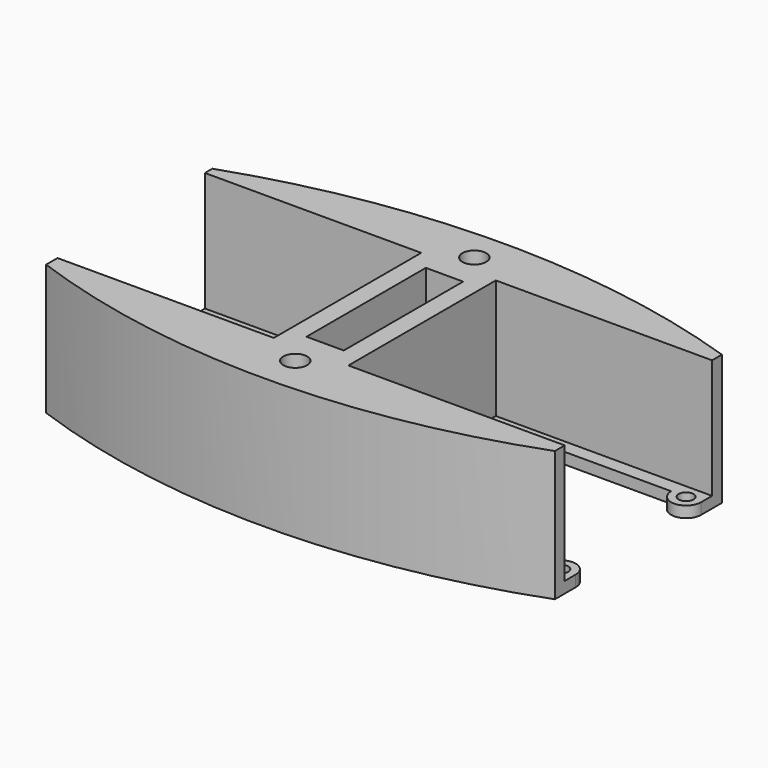
from build123d import *

# Parameters (mm, degrees)
SKETCH_R        = 1
PAD_DEPTH       = 1.5
PAD001_DEPTH    = 16
SKETCH002_R     = 1.6
POCKET_DEPTH    = 30
POCKET001_DEPTH = 14
SKETCH004_W     = 5
SKETCH004_H     = 20
POCKET002_DEPTH = 20


with BuildPart() as part:
    # Sketch → Pad (new body)
    with BuildSketch(Plane.XY):
        with BuildLine():
            Line((13, 10.5), (30, 10.5))
            ThreePointArc((30, 10.5), (32, 8.5), (34, 10.5))
            Line((34, 10.5), (34, 14))
            ThreePointArc((34, 14), (-0.033512, 19.410124), (-34, 13.594018))
            Line((-34, 10.5), (-34, 13.594018))
            ThreePointArc((-34, 10.5), (-32, 8.5), (-30, 10.5))
            Line((-13, 10.5), (-30, 10.5))
            ThreePointArc((-13, 10.5), (-11, 8.5), (-9, 10.5))
            Line((-9, 10.5), (-5, 10.5))
            Line((-5, 10.5), (-5, -10.5))
            Line((-5, -10.5), (-9, -10.5))
            ThreePointArc((-9, -10.5), (-11, -8.5), (-13, -10.5))
            Line((-13, -10.5), (-30, -10.5))
            ThreePointArc((-30, -10.5), (-32, -8.5), (-34, -10.5))
            Line((-34, -10.5), (-34, -14.265938))
            ThreePointArc((-34, -14.265938), (0.023508, -20.143886), (34, -14))
            Line((34, -10.5), (34, -14))
            ThreePointArc((34, -10.5), (32, -8.5), (30, -10.5))
            Line((13, -10.5), (30, -10.5))
            ThreePointArc((13, -10.5), (11, -8.5), (9, -10.5))
            Line((5, -10.5), (9, -10.5))
            Line((5, 10.5), (5, -10.5))
            Line((9, 10.5), (5, 10.5))
            ThreePointArc((9, 10.5), (11, 8.5), (13, 10.5))
        make_face()
        with Locations((11, 10.5)):
            Circle(SKETCH_R, mode=Mode.SUBTRACT)
        with Locations((11, -10.5)):
            Circle(SKETCH_R, mode=Mode.SUBTRACT)
        with Locations((32, 10.5)):
            Circle(SKETCH_R, mode=Mode.SUBTRACT)
        with Locations((32, -10.5)):
            Circle(SKETCH_R, mode=Mode.SUBTRACT)
        with Locations((-11, 10.5)):
            Circle(SKETCH_R, mode=Mode.SUBTRACT)
        with Locations((-11, -10.5)):
            Circle(SKETCH_R, mode=Mode.SUBTRACT)
        with Locations((-32, 10.5)):
            Circle(SKETCH_R, mode=Mode.SUBTRACT)
        with Locations((-32, -10.5)):
            Circle(SKETCH_R, mode=Mode.SUBTRACT)
    extrude(amount=PAD_DEPTH)

    # Sketch001 → Pad001 (new body)
    with BuildSketch(Plane.XY.offset(1.5)):
        with BuildLine():
            Line((-34, 12.35), (-5, 12.35))
            Line((-5, 12.35), (-5, 10.5))
            Line((-5, 10.5), (-5, -10.5))
            Line((-5, -10.5), (-5, -12.35))
            Line((-34, -12.35), (-5, -12.35))
            Line((-34, -12.35), (-34, -14.265938))
            ThreePointArc((-34, -14.265938), (0.023508, -20.143886), (34, -14))
            Line((34, -12.35), (34, -14))
            Line((34, -12.35), (5, -12.35))
            Line((5, -10.5), (5, -12.35))
            Line((5, 10.5), (5, -10.5))
            Line((5, 12.35), (5, 10.5))
            Line((34, 12.35), (5, 12.35))
            Line((34, 12.35), (34, 14))
            ThreePointArc((34, 14), (-0.033512, 19.410124), (-34, 13.594018))
            Line((-34, 13.594018), (-34, 12.35))
        make_face()
    extrude(amount=PAD001_DEPTH)

    # Sketch002 → Pocket (cut)
    with BuildSketch(Plane(origin=(0, 0, 0), x_dir=(1, 0, 0), z_dir=(0, 0, -1))):
        with Locations((0, 15)):
            Circle(SKETCH002_R)
        with Locations((0, -15)):
            Circle(SKETCH002_R)
    extrude(amount=-POCKET_DEPTH, mode=Mode.SUBTRACT)

    # Sketch003 → Pocket001 (cut)
    with BuildSketch(Plane(origin=(0, 0, 0), x_dir=(1, 0, 0), z_dir=(0, 0, -1))):
        Polygon((1.491232, 12.396881), (2.999983, 14.989885), (1.508751, 17.593004), (-1.491232, 17.603119), (-2.999983, 15.010115), (-1.508751, 12.406996), align=None)
        Polygon((1.360539, -17.673749), (2.995804, -15.158613), (1.635265, -12.484864), (-1.360539, -12.326251), (-2.995804, -14.841387), (-1.635265, -17.515136), align=None)
    extrude(amount=-POCKET001_DEPTH, mode=Mode.SUBTRACT)

    # Sketch004 → Pocket002 (cut)
    with BuildSketch(Plane.XY.offset(17.5)):
        Rectangle(SKETCH004_W, SKETCH004_H)
    extrude(amount=-POCKET002_DEPTH, mode=Mode.SUBTRACT)


solid = part.part
